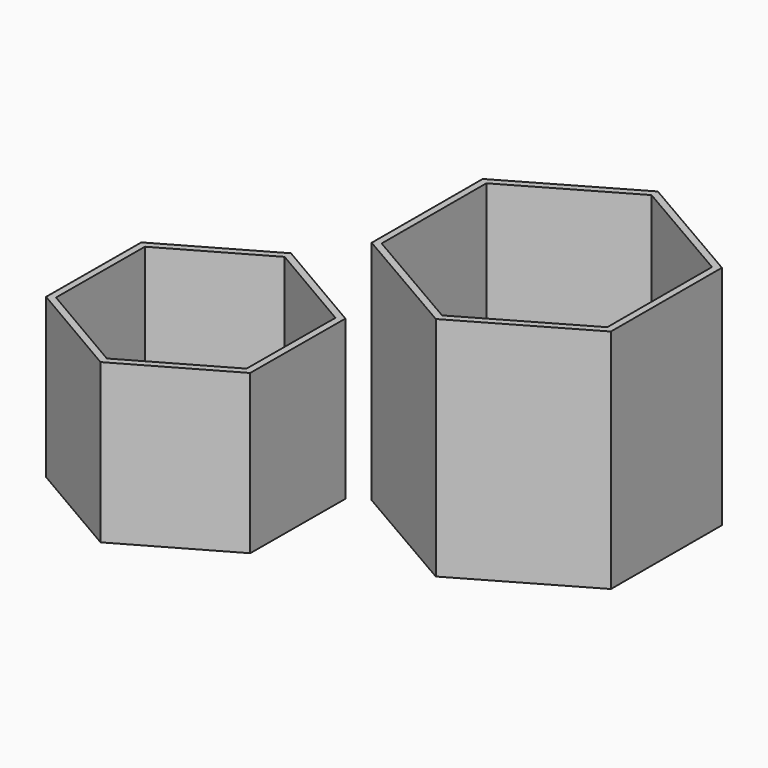
from build123d import *

# Parameters (mm, degrees)
F1_DEPTH = 100
F2_DEPTH = 70
F3_T     = -3
F4_T     = -3


with BuildPart() as f1:
    # F0 (on Top) → F1 (new body)
    with BuildSketch(Plane.XY):
        Polygon((-0.139473, -61.033414), (52.786751, -30.637494), (52.926223, 30.39592), (0.139473, 61.033414), (-52.786751, 30.637494), (-52.926223, -30.39592), align=None)
    extrude(amount=F1_DEPTH)

    # F4
    f4_openings = [f1.faces().sort_by_distance(p)[0] for p in [
        (0, 0, 100),
    ]]
    offset(amount=F4_T, openings=f4_openings)


with BuildPart() as f2:
    # F0 (on Top) → F2 (new body)
    with BuildSketch(Plane.XY):
        Polygon((-106.252715, -113.261599), (-60.925469, -87.398407), (-60.660028, -35.212264), (-105.721832, -8.889314), (-151.049077, -34.752506), (-151.314519, -86.938648), align=None)
    extrude(amount=F2_DEPTH)

    # F3
    f3_openings = [f2.faces().sort_by_distance(p)[0] for p in [
        (-105.987273, -61.075456, 70),
    ]]
    offset(amount=F3_T, openings=f3_openings)


solid = Compound([f1.part, f2.part])
